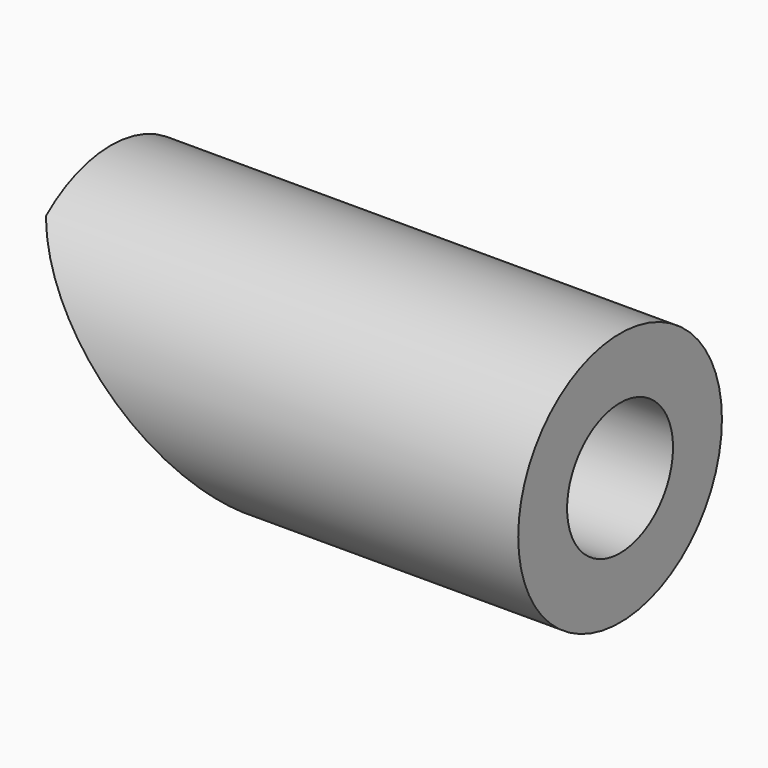
from build123d import *

# Parameters (mm, degrees)
F0_R          = 12.5
F1_DEPTH      = 50
F2_R          = 6.5
F3_DEPTH      = 50
F5_DEPTH      = 12.501
F5_DEPTH_BACK = 12.501


with BuildPart() as f1:
    # F0 (on Right) → F1 (new body)
    with BuildSketch(Plane.YZ):
        Circle(F0_R)
    extrude(amount=F1_DEPTH)

    # F2 (on face) → F3 (cut, through all)
    with BuildSketch(Plane.YZ.offset(50)):
        Circle(F2_R)
    extrude(amount=-F3_DEPTH, mode=Mode.SUBTRACT)

    # F4 (on Front) → F5 (cut, two sides)
    with BuildSketch(Plane.XZ) as f5_sk:
        Polygon((0, -12.5), (21.0457462817, -12.5), (0, 9.6463374794), align=None)
    extrude(amount=-F5_DEPTH, mode=Mode.SUBTRACT)
    extrude(f5_sk.sketch, amount=F5_DEPTH_BACK, mode=Mode.SUBTRACT)


solid = f1.part
